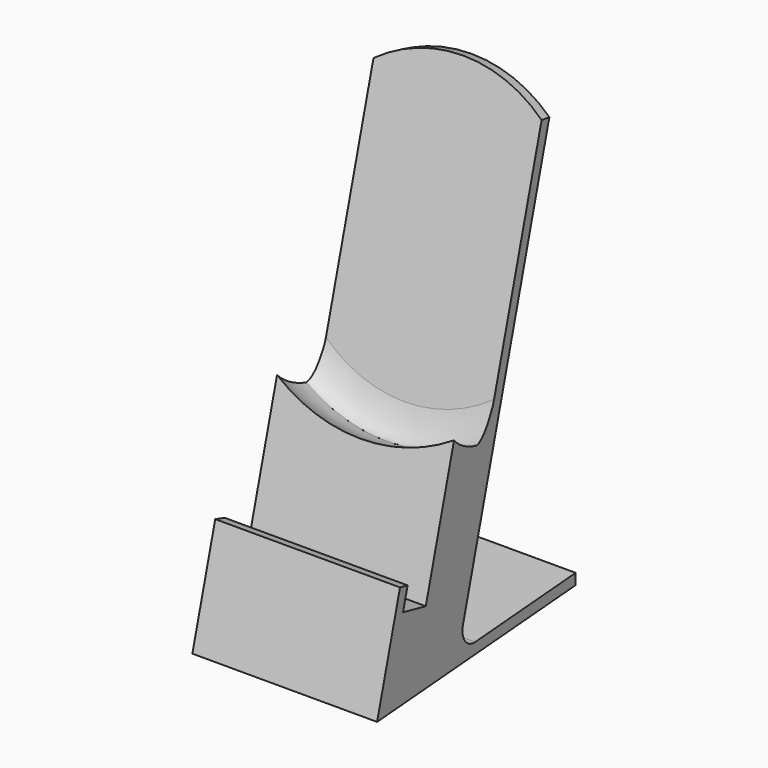
from build123d import *

# Parameters (mm, degrees)
F1_DEPTH = 25
F5_DEPTH = 16.7
F8_DEPTH = 141.2028865991


with BuildPart() as f1:
    # F0 (on Right) → F1 (new body, symmetric)
    with BuildSketch(Plane.YZ):
        with BuildLine():
            Line((-36.5510998701, 0), (38.4489001299, 0))
            Line((38.4489001299, 0), (38.4489001299, 3))
            Line((38.4489001299, 3), (0.4813009491, 3))
            ThreePointArc((0.4813009491, 3), (-3.4854657523, 4.956192855), (-4.3483281823, 9.2940952255))
            Line((-4.3483281823, 9.2940952255), (28.8086734224, 133.0377098409))
            Line((28.8086734224, 133.0377098409), (12.6777121234, 137.3599878941))
            Line((12.6777121234, 137.3599878941), (-18.7688018566, 20))
            Line((-18.7688018566, 20), (-27.4621342932, 22.3293714059))
            Line((-27.4621342932, 22.3293714059), (-25.9092200226, 28.1249263637))
            Line((-25.9092200226, 28.1249263637), (-28.8069975014, 28.901383499))
            Line((-28.8069975014, 28.901383499), (-36.5510998701, 0))
        make_face()
    extrude(amount=F1_DEPTH, both=True)

    # F2 (on Right) → F3 (revolve, cut)
    with BuildSketch(Plane.YZ):
        with BuildLine():
            Line((12.2894835557, 135.9110991547), (0.6426265261, 92.4444369717))
            Line((0.6426265261, 92.4444369717), (13.8758103463, 88.8986160538))
            Line((13.8758103463, 88.8986160538), (23.8403435827, 126.0867603659))
            add(Edge.make_bspline(
                [(22.2214309345, 135.113339), (24.3902161666, 133.5995613693), (24.376132241, 128.0570148586), (23.8403435827, 126.0867603659)],
                knots=[0, 0, 0, 0, 9.1706052145, 9.1706052145, 9.1706052145, 9.1706052145], degree=3))
            add(Edge.make_bspline(
                [(12.2894835557, 135.9110991547), (16.0249762186, 136.7180167793), (20.3704343359, 135.803547418), (22.2214309345, 135.113339)],
                knots=[0, 0, 0, 0, 9.9639349657, 9.9639349657, 9.9639349657, 9.9639349657], degree=3))
        make_face()
    revolve(axis=Axis((0, 7.2592184362, 90.6715265127), (0, -0.9659258263, 0.2588190451)), mode=Mode.SUBTRACT)

    # F4 (on face) → F5 (cut, through all)
    with BuildSketch(Plane(origin=(0, -6.3805692325, 1.7096683731), x_dir=(-1, 0, 0), z_dir=(0, 0.9659258263, -0.2588190451))):
        with BuildLine():
            ThreePointArc((-25, 118.7396250955), (0, 127.9607931515), (25, 118.7396250955))
            Line((25, 118.7396250955), (25, 135.9607931515))
            Line((25, 135.9607931515), (-25, 135.9607931515))
            Line((-25, 135.9607931515), (-25, 118.7396250955))
        make_face()
    extrude(amount=-F5_DEPTH, mode=Mode.SUBTRACT)

    # F7 (on face) → F8 (cut, through all)
    with BuildSketch(Plane(origin=(0, -2.4484594232, -9.1377749675), x_dir=(1, 0, 0), z_dir=(0, 0.2588190451, 0.9659258263))):
        Polygon((-25, 37.1387856279), (-25, -35.3056513438), (-18.6619330295, 37.1387856279), align=None)
        Polygon((18.6619330295, 37.1387856279), (25, -35.3056513438), (25, 37.1387856279), align=None)
    extrude(amount=F8_DEPTH, mode=Mode.SUBTRACT)


solid = f1.part
